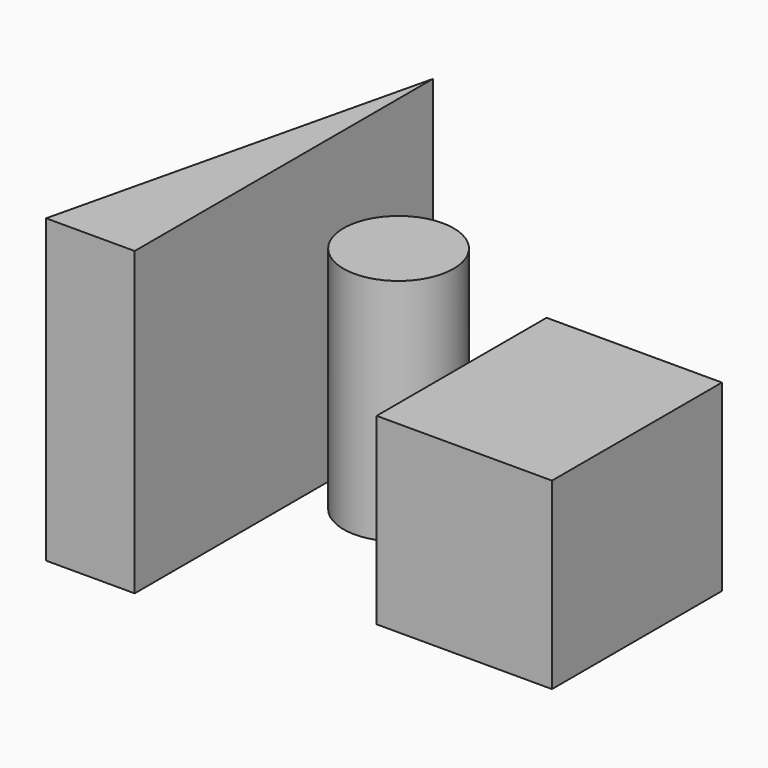
from build123d import *

# Parameters (mm, degrees)
F0_W     = 106.768228
F0_H     = 129.3335
F1_DEPTH = 111.76
F2_R     = 33.490648
F3_DEPTH = 139.7
F5_DEPTH = 183.515


with BuildPart() as f1:
    # F0 (on Top) → F1 (new body)
    with BuildSketch(Plane.XY):
        with Locations((0, -8.248193)):
            Rectangle(F0_W, F0_H)
    extrude(amount=F1_DEPTH)


with BuildPart() as f3:
    # F2 (on Top) → F3 (new body)
    with BuildSketch(Plane.XY):
        with Locations((-119.369633, 26.256129)):
            Circle(F2_R)
    extrude(amount=F3_DEPTH)


with BuildPart() as f5:
    # F4 (on Top) → F5 (new body)
    with BuildSketch(Plane.XY):
        Polygon((-163.109899, -119.890295), (-163.109899, 107.068837), (-217.055589, -119.890295), align=None)
    extrude(amount=F5_DEPTH)


solid = Compound([f1.part, f3.part, f5.part])
